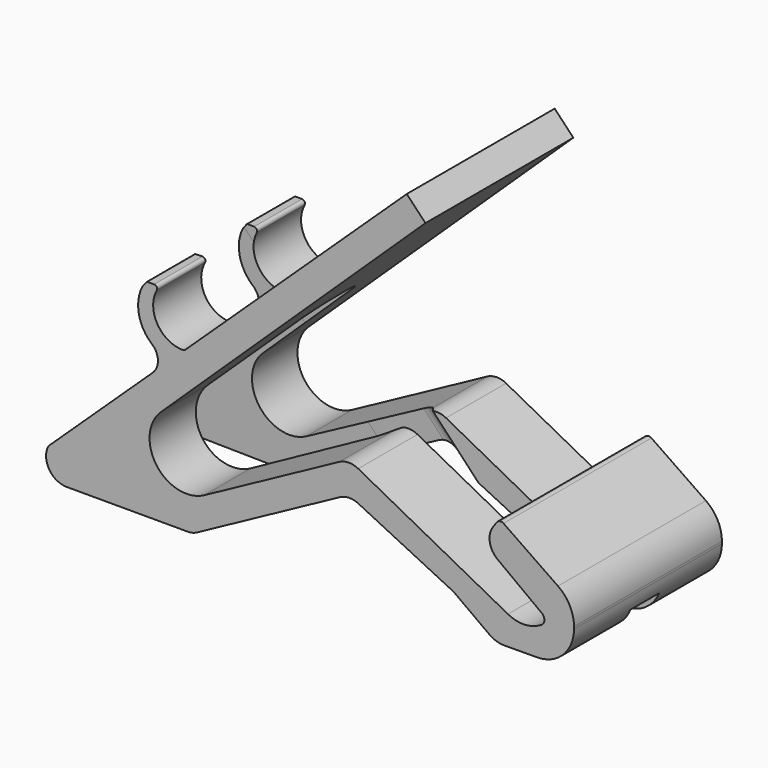
from build123d import *

# Parameters (mm, degrees)
F1_DEPTH      = 75
F3_DEPTH      = 30
F3_DEPTH_BACK = 90
F4_W          = 68.7531680209
F4_H          = 14.4708263688
F5_DEPTH      = 25
F5_DEPTH_BACK = 10


with BuildPart() as f1:
    # F0 (on Front) → F1 (new body)
    with BuildSketch(Plane.XZ):
        with BuildLine():
            Line((35.7055822906, 78.3045381219), (-54.2122411279, -6.6178094916))
            ThreePointArc((-54.2122411279, -6.6178094916), (-54.5952252844, -6.8622663067), (-55.0413462098, -6.9483599686))
            ThreePointArc((-55.0413462098, -6.9483599686), (-65.454548531, -1.0579541733), (-65.7249668893, 10.9027538713))
            ThreePointArc((-65.7249668893, 10.9027538713), (-65.7514161094, 12.0978334092), (-66.7910191515, 12.6878674574))
            Line((-66.7910191515, 12.6878674574), (-69.3984164298, 12.6878674574))
            ThreePointArc((-69.3984164298, 12.6878674574), (-69.6958292502, 12.6199768131), (-69.9343224371, 12.4297545087))
            Line((-69.9343224371, 12.4297545087), (-71.4332162747, 10.549801355))
            ThreePointArc((-71.4332162747, 10.549801355), (-72.983516127, 0.1409632474), (-67.6478594542, -8.9297648519))
            ThreePointArc((-67.6478594542, -8.9297648519), (-65.2384193211, -13.915925777), (-67.3571118078, -19.0324035373))
            Line((-67.3571118078, -19.0324035373), (-109.6802590447, -59.0042454993))
            ThreePointArc((-109.6802590447, -59.0042454993), (-109.3628044531, -67.2017482376), (-102.1890001615, -71.1812407363))
            Line((-102.1890001615, -71.1812407363), (-53.1669473059, -71.1812407356))
            ThreePointArc((-53.1669473059, -71.1812407356), (-51.1816807122, -70.9332267187), (-49.3184445074, -70.2044295966))
            Line((-49.3184445074, -70.2044295966), (8.606172505, -38.7753114248))
            ThreePointArc((8.606172505, -38.7753114248), (12.2860183049, -37.8002629481), (16.0033975224, -38.6206752819))
            Line((16.0033975224, -38.6206752819), (54.5573614144, -57.4984885011))
            ThreePointArc((54.5573614144, -57.4984885011), (54.7053822121, -57.5790589788), (54.8459093451, -57.6720852296))
            Line((54.8459093451, -57.6720852296), (69.2774157369, -68.1477812421))
            ThreePointArc((69.2774157369, -68.1477812421), (72.0938830707, -69.5760831015), (75.2153037267, -70.0549019945))
            Line((75.2153037267, -70.0549019945), (78.6547126816, -70.03306521))
            Line((78.6547126816, -70.03306521), (88.6365619759, -69.9696905154))
            ThreePointArc((88.6365619759, -69.9696905154), (99.1815473838, -65.542870992), (103.5413289953, -54.9699928292))
            Line((103.5413289953, -54.9699928292), (103.5413289953, -54.1190856195))
            ThreePointArc((103.5413289953, -54.1190856195), (101.8167785406, -47.1360748524), (97.0396704124, -41.7587380046))
            Line((97.0396704124, -41.7587380046), (74.9481714859, -26.5697557736))
            ThreePointArc((74.9481714859, -26.5697557736), (73.5068370972, -26.2547430485), (72.2561461348, -27.0373348667))
            Line((72.2561461348, -27.0373348667), (70.7882150116, -29.0739654592))
            ThreePointArc((70.7882150116, -29.0739654592), (69.371825982, -34.9724326755), (72.5013272631, -40.1689983795))
            Line((72.5013272631, -40.1689983795), (90.4884265587, -53.557894228))
            ThreePointArc((90.4884265587, -53.557894228), (91.510056882, -56.0523850299), (89.7824317217, -58.1215694547))
            ThreePointArc((89.7824317217, -58.1215694547), (83.3025731901, -59.9380088951), (76.7556883533, -58.3803446938))
            Line((76.7556883533, -58.3803446938), (15.9965307599, -26.203911059))
            ThreePointArc((15.9965307599, -26.203911059), (12.1791348203, -25.2657414738), (8.3714169644, -26.2424495468))
            Line((8.3714169644, -26.2424495468), (-46.4835128256, -56.0059967154))
            ThreePointArc((-46.4835128256, -56.0059967154), (-65.7620061585, -51.6527529228), (-63.9911285633, -31.9683675057))
            Line((-63.9911285633, -31.9683675057), (43.2786946767, 70.3661996968))
            Line((43.2786946767, 70.3661996968), (35.7055822906, 78.3045381219))
        make_face()
    extrude(amount=F1_DEPTH)

    # F2 (on face) → F3 (cut, two sides)
    with BuildSketch(Plane(origin=(-22.2549429173, 0, 23.5640686305), x_dir=(0.7270133187, 0, 0.686623357), z_dir=(-0.686623357, 0, 0.7270133187))) as f3_sk:
        Polygon((-43.9569639067, -24.1313080694), (-143.9990401268, -21.0843849927), (-143.4555607145, -53.2556629783), (-43.9569639067, -50.5866528074), align=None)
        with BuildLine():
            Line((-18.389185364, -24.9100109652), (-43.9569639067, -24.1313080694))
            Line((-43.9569639067, -24.1313080694), (-43.9569639067, -50.5866528074))
            Line((-43.9569639067, -50.5866528074), (-18.4254588112, -49.9017803673))
            ThreePointArc((-18.4254588112, -49.9017803673), (-11.5283625374, -46.8809946351), (-8.6936083649, -39.905376223))
            Line((-8.6936083649, -39.905376223), (-8.6936083649, -34.905376223))
            ThreePointArc((-8.6936083649, -34.905376223), (-11.5157176577, -27.9427700303), (-18.389185364, -24.9100109652))
        make_face()
    extrude(amount=F3_DEPTH, mode=Mode.SUBTRACT)
    extrude(f3_sk.sketch, amount=-F3_DEPTH_BACK, mode=Mode.SUBTRACT)

    # F4 (on face) → F5 (cut, two sides)
    with BuildSketch(Plane(origin=(-7.3339171449, 0, -13.8487264512), x_dir=(0.8837288425, 0, -0.4679992873), z_dir=(0.4679992873, 0, 0.8837288425))) as f5_sk:
        with Locations((60.7765913236, -37.6946638618)):
            Rectangle(F4_W, F4_H)
        with BuildLine():
            ThreePointArc((11.2418346107, -39.9300770462), (12.7063007048, -43.4656109521), (16.2418346107, -44.9300770462))
            Line((16.2418346107, -44.9300770462), (26.4000073131, -44.9300770462))
            Line((26.4000073131, -44.9300770462), (26.4000073131, -30.4592506774))
            Line((26.4000073131, -30.4592506774), (16.2418346107, -30.4592506774))
            ThreePointArc((16.2418346107, -30.4592506774), (12.7063007048, -31.9237167714), (11.2418346107, -35.4592506774))
            Line((11.2418346107, -35.4592506774), (11.2418346107, -39.9300770462))
        make_face()
        with BuildLine():
            Line((95.153175334, -30.4592506774), (95.153175334, -44.9300770462))
            Line((95.153175334, -44.9300770462), (131.284661945, -44.9300770462))
            ThreePointArc((131.284661945, -44.9300770462), (134.8201958509, -43.4656109521), (136.284661945, -39.9300770462))
            Line((136.284661945, -39.9300770462), (136.284661945, -35.4592506774))
            ThreePointArc((136.284661945, -35.4592506774), (134.8201958509, -31.9237167714), (131.284661945, -30.4592506774))
            Line((131.284661945, -30.4592506774), (95.153175334, -30.4592506774))
        make_face()
    extrude(amount=-F5_DEPTH, mode=Mode.SUBTRACT)
    extrude(f5_sk.sketch, amount=F5_DEPTH_BACK, mode=Mode.SUBTRACT)


solid = f1.part
